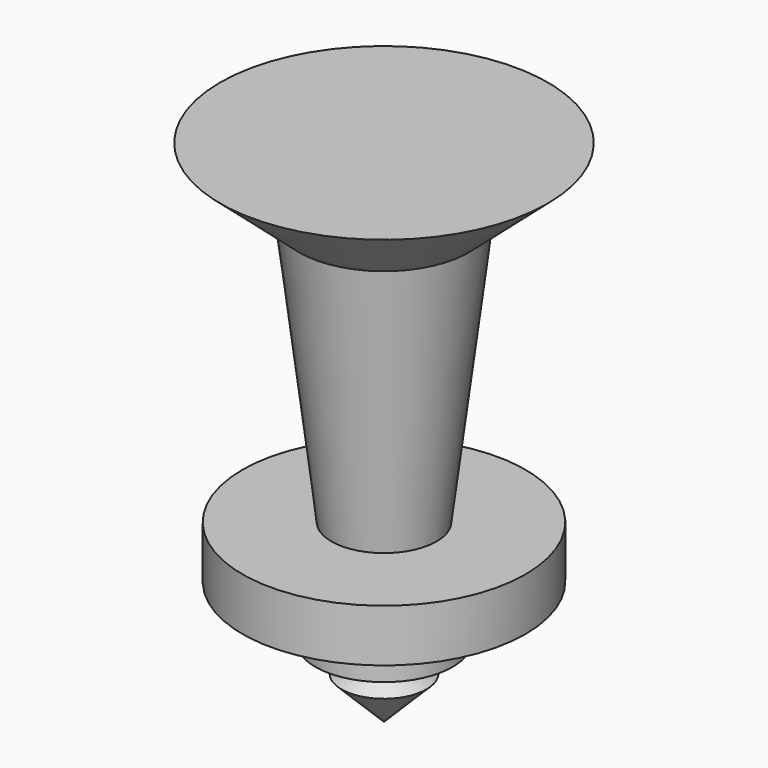
from build123d import *


with BuildPart() as f1:
    # F0 (on Front) → F1 (revolve)
    with BuildSketch(Plane.XZ):
        Polygon((0, -65.271318), (0, 0), (-24.363948, 0), (-12.633158, -10.226843), (-7.820527, -49.630266), (-21.055263, -49.630266), (-21.055263, -57.45079), (-10.226842, -57.45079), (-10.226842, -65.271318), align=None)
    revolve(axis=Axis((0, 0, -32.635659), (0, 0, -1)))


with BuildPart() as f3:
    # F2 (on Front) → F3 (revolve)
    with BuildSketch(Plane.XZ):
        Polygon((6.316578, -69.482371), (0, -65.572105), (0, -75.798951), align=None)
    revolve(axis=Axis((0, 0, -70.685528), (0, 0, 1)))


solid = Compound([f1.part, f3.part])
